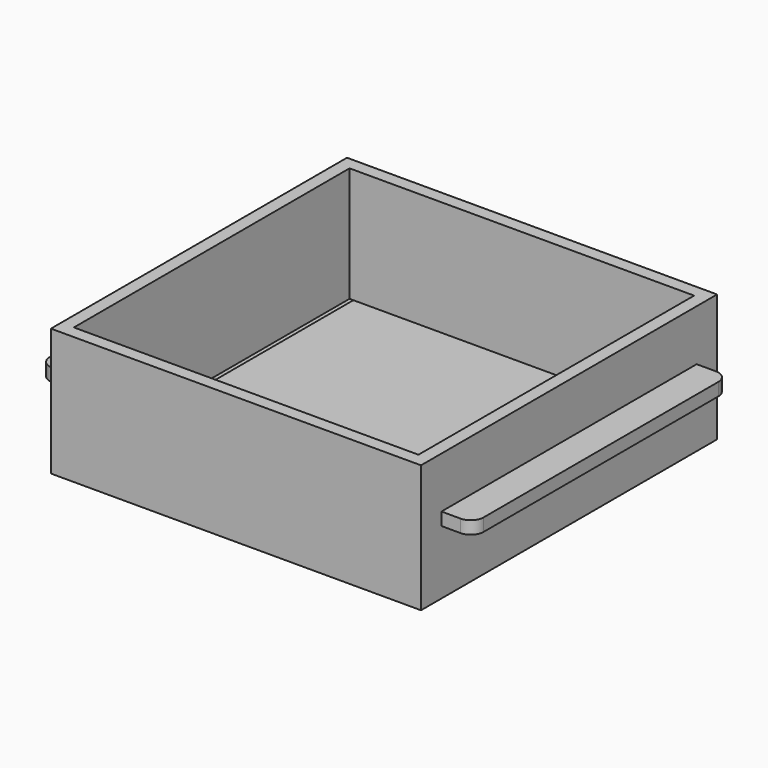
from build123d import *

# Parameters (mm, degrees)
F0_W      = 145
F0_H      = 145
F1_DEPTH  = 50
F2_T      = -5
F3_W      = 120
F3_H      = 120
F4_DEPTH  = 25
F6_W      = 15
F6_H      = 125
F7_DEPTH  = 5
F8_R      = 5
F9_W      = 120
F9_H      = 120
F10_DEPTH = 5


with BuildPart() as f1:
    # F0 (on Top) → F1 (new body)
    with BuildSketch(Plane.XY):
        Rectangle(F0_W, F0_H)
    extrude(amount=F1_DEPTH)

    # F2
    f2_openings = [f1.faces().sort_by_distance(p)[0] for p in [
        (0, 0, 50),
    ]]
    offset(amount=F2_T, openings=f2_openings)

    # F3 (on Top) → F4 (cut)
    with BuildSketch(Plane.XY):
        Rectangle(F3_W, F3_H)
    extrude(amount=F4_DEPTH, mode=Mode.SUBTRACT)

    # F6 (on offset) → F7 (join)
    with BuildSketch(Plane.XY.offset(25)):
        with Locations((-77.5, 0)):
            Rectangle(F6_W, F6_H)
        with Locations((77.5, 0)):
            Rectangle(F6_W, F6_H)
    extrude(amount=F7_DEPTH)

    # F8
    f8_edges = [f1.edges().sort_by_distance(p)[0] for p in [
        (-85, 62.5, 27.5),
        (85, 62.5, 27.5),
        (85, -62.5, 27.5),
        (-85, -62.5, 27.5),
    ]]
    fillet(f8_edges, radius=F8_R)


with BuildPart() as f10:
    # F9 (on face) → F10 (new body)
    with BuildSketch(Plane.XY.offset(5)):
        Rectangle(F9_W, F9_H)
    extrude(amount=F10_DEPTH)


solid = Compound([f1.part, f10.part])
